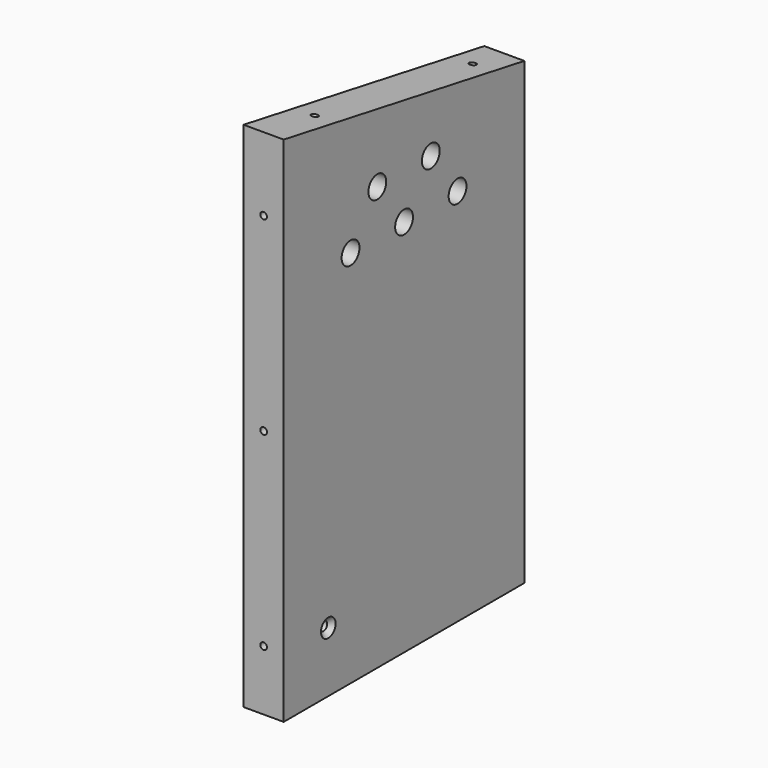
from build123d import *

# Parameters (mm, degrees)
F1_DEPTH       = 18
F2_D           = 10
F3_D           = 10
F5_D           = 4
F5_CSINK_D     = 8.2
F5_CSINK_ANGLE = 90
F7_D           = 3
F7_DEPTH       = 20
F7_TIP         = 0.9012909285
F9_D           = 3
F9_DEPTH       = 20
F9_TIP         = 0.9012909285
F11_D          = 3
F11_DEPTH      = 20
F11_TIP        = 0.9012909285


with BuildPart() as f1:
    # F0 (on Right) → F1 (new body)
    with BuildSketch(Plane.YZ):
        Polygon((0, 230), (0, 0), (135, 0), (135, 206.1958576044), align=None)
    extrude(amount=F1_DEPTH)

    # F2 (through all)
    with Locations(Plane(origin=(0, 0, 0), x_dir=(0, 1, 0), z_dir=(-1, 0, 0))):
        with Locations((37.5, -170), (67.5, -170), (97.5, -170)):
            Hole(F2_D / 2)

    # F3 (through all)
    with Locations(Plane(origin=(0, 0, 0), x_dir=(0, 1, 0), z_dir=(-1, 0, 0))):
        with Locations((52.5, -190), (82.5, -190)):
            Hole(F3_D / 2)

    # F5 (through all)
    with Locations(Plane.YZ.offset(18)):
        with Locations((25, 27)):
            CounterSinkHole(F5_D / 2, F5_CSINK_D / 2, counter_sink_angle=F5_CSINK_ANGLE)

    # F7
    with Locations(Plane(origin=(0, 135, 0), x_dir=(-1, 0, 0), z_dir=(0, 1, 0))):
        with Locations((-9, 27), (-9, 106), (-9, 185)):
            Hole(F7_D / 2, depth=F7_DEPTH)
            with Locations((0, 0, -(F7_DEPTH + F7_TIP / 2))):  # 118° drill point
                Cone(0, F7_D / 2, F7_TIP, mode=Mode.SUBTRACT)

    # F9
    with Locations(Plane.XZ):
        with Locations((9, 197), (9, 112), (9, 27)):
            Hole(F9_D / 2, depth=F9_DEPTH)
            with Locations((0, 0, -(F9_DEPTH + F9_TIP / 2))):  # 118° drill point
                Cone(0, F9_D / 2, F9_TIP, mode=Mode.SUBTRACT)

    # F11
    with Locations(Plane(origin=(0, 39.3323164825, 223.0646513904), x_dir=(1, 0, 0), z_dir=(0, 0.1736481777, 0.984807753))):
        with Locations((9, -10.8564882588), (9, 79.1435117412)):
            Hole(F11_D / 2, depth=F11_DEPTH)
            with Locations((0, 0, -(F11_DEPTH + F11_TIP / 2))):  # 118° drill point
                Cone(0, F11_D / 2, F11_TIP, mode=Mode.SUBTRACT)


solid = f1.part
